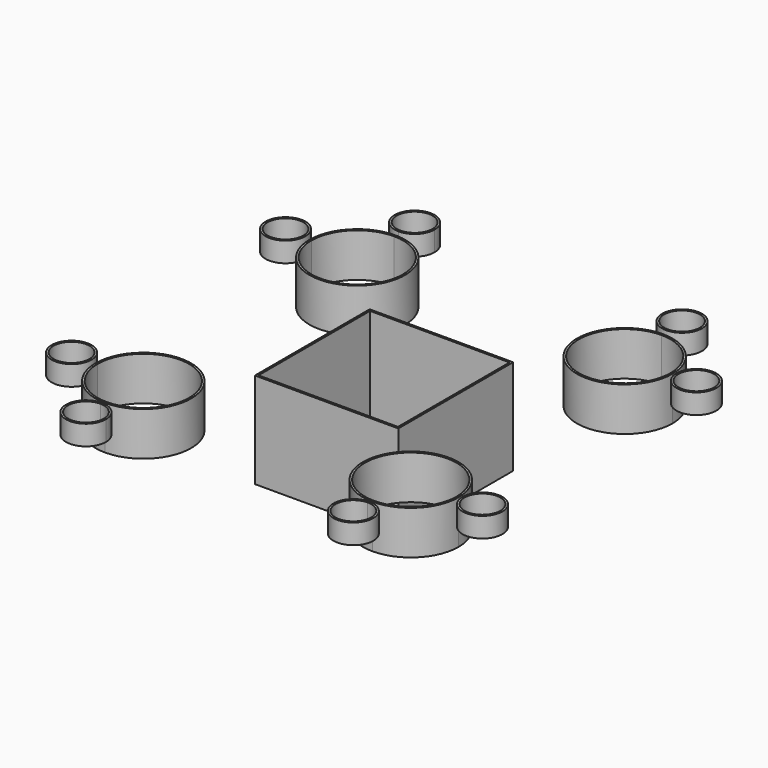
from build123d import *

# Parameters (mm, degrees)
F1_DEPTH = 304.8
F2_START = 166.6155457497
F2_DEPTH = 139.140188694
F3_START = 247.7854937315
F3_DEPTH = 63.5806769133
F0_R     = 63.5
F0_R_2   = 57.1499595642
F0_R_3   = 57.1500191689


with BuildPart() as f1:
    # F0 (on Top) → F1 (new body)
    with BuildSketch(Plane.XY):
        Polygon((228.6, 0), (222.2499893665, 0), (222.2499893665, -222.2499893665), (-222.2499893665, -222.2499893665), (-222.2499893665, 222.2499893665), (222.2499893665, 222.2499893665), (228.6, 228.6), (-228.6, 228.6), (-228.6, -228.6), (228.6, -228.6), align=None)
        Polygon((222.2499893665, 222.2499893665), (222.2499893665, 0), (228.6, 0), (228.6, 228.6), align=None)
    extrude(amount=F1_DEPTH)


with BuildPart() as f2:
    # F0 (on Top) → F2 (new body)
    with BuildSketch(Plane.XY.offset(F2_START)):
        with BuildLine():
            ThreePointArc((-426.1656346635, 578.5656346635), (-533.9287081164, 533.9287081164), (-578.5656346635, 426.1656346635))
            Line((-578.5656346635, 426.1656346635), (-572.2156538324, 426.1656346635))
            ThreePointArc((-572.2156538324, 426.1656346635), (-529.4385936102, 529.4385936102), (-426.1656346635, 572.2156538324))
            Line((-426.1656346635, 572.2156538324), (-426.1656346635, 578.5656346635))
        make_face()
        with BuildLine():
            Line((-322.8926757168, 322.8926757168), (-318.4025612107, 318.4025612107))
            ThreePointArc((-318.4025612107, 318.4025612107), (-285.3663939088, 367.8446795711), (-273.7656346635, 426.1656346635))
            ThreePointArc((-273.7656346635, 426.1656346635), (-318.4025612107, 533.9287081164), (-426.1656346635, 578.5656346635))
            Line((-426.1656346635, 578.5656346635), (-426.1656346635, 572.2156538324))
            ThreePointArc((-426.1656346635, 572.2156538324), (-322.8926757168, 529.4385936102), (-280.1156154947, 426.1656346635))
            ThreePointArc((-280.1156154947, 426.1656346635), (-291.2330112305, 370.274712031), (-322.8926757168, 322.8926757168))
        make_face()
        with BuildLine():
            ThreePointArc((-578.5656346635, 426.1656346635), (-484.486589756, 285.3663939088), (-318.4025612107, 318.4025612107))
            Line((-318.4025612107, 318.4025612107), (-322.8926757168, 322.8926757168))
            ThreePointArc((-322.8926757168, 322.8926757168), (-482.056557296, 291.2330112305), (-572.2156538324, 426.1656346635))
            Line((-572.2156538324, 426.1656346635), (-578.5656346635, 426.1656346635))
        make_face()
    extrude(amount=F2_DEPTH)


with BuildPart() as f2b:
    # F0 (on Top) → F2, piece 2 (new body)
    with BuildSketch(Plane.XY.offset(F2_START)):
        with BuildLine():
            ThreePointArc((426.1656346635, 578.5656346635), (285.3663939088, 484.486589756), (318.4025612107, 318.4025612107))
            Line((318.4025612107, 318.4025612107), (322.8926757168, 322.8926757168))
            ThreePointArc((322.8926757168, 322.8926757168), (291.2330112305, 482.056557296), (426.1656346635, 572.2156538324))
            Line((426.1656346635, 572.2156538324), (426.1656346635, 578.5656346635))
        make_face()
        with BuildLine():
            ThreePointArc((578.5656346635, 426.1656346635), (533.9287081164, 533.9287081164), (426.1656346635, 578.5656346635))
            Line((426.1656346635, 578.5656346635), (426.1656346635, 572.2156538324))
            ThreePointArc((426.1656346635, 572.2156538324), (529.4385936102, 529.4385936102), (572.2156538324, 426.1656346635))
            Line((572.2156538324, 426.1656346635), (578.5656346635, 426.1656346635))
        make_face()
        with BuildLine():
            Line((322.8926757168, 322.8926757168), (318.4025612107, 318.4025612107))
            ThreePointArc((318.4025612107, 318.4025612107), (484.486589756, 285.3663939088), (578.5656346635, 426.1656346635))
            Line((578.5656346635, 426.1656346635), (572.2156538324, 426.1656346635))
            ThreePointArc((572.2156538324, 426.1656346635), (482.056557296, 291.2330112305), (322.8926757168, 322.8926757168))
        make_face()
    extrude(amount=F2_DEPTH)


with BuildPart() as f2c:
    # F0 (on Top) → F2, piece 3 (new body)
    with BuildSketch(Plane.XY.offset(F2_START)):
        with BuildLine():
            ThreePointArc((578.5656346635, -426.1656346635), (484.486589756, -285.3663939088), (318.4025612107, -318.4025612107))
            Line((318.4025612107, -318.4025612107), (322.8926757168, -322.8926757168))
            ThreePointArc((322.8926757168, -322.8926757168), (482.056557296, -291.2330112305), (572.2156538324, -426.1656346635))
            Line((572.2156538324, -426.1656346635), (578.5656346635, -426.1656346635))
        make_face()
        with BuildLine():
            ThreePointArc((426.1656346635, -578.5656346635), (533.9287081164, -533.9287081164), (578.5656346635, -426.1656346635))
            Line((578.5656346635, -426.1656346635), (572.2156538324, -426.1656346635))
            ThreePointArc((572.2156538324, -426.1656346635), (529.4385936102, -529.4385936102), (426.1656346635, -572.2156538324))
            Line((426.1656346635, -572.2156538324), (426.1656346635, -578.5656346635))
        make_face()
        with BuildLine():
            Line((322.8926757168, -322.8926757168), (318.4025612107, -318.4025612107))
            ThreePointArc((318.4025612107, -318.4025612107), (285.3663939088, -484.486589756), (426.1656346635, -578.5656346635))
            Line((426.1656346635, -578.5656346635), (426.1656346635, -572.2156538324))
            ThreePointArc((426.1656346635, -572.2156538324), (291.2330112305, -482.056557296), (322.8926757168, -322.8926757168))
        make_face()
    extrude(amount=F2_DEPTH)


with BuildPart() as f2d:
    # F0 (on Top) → F2, piece 4 (new body)
    with BuildSketch(Plane.XY.offset(F2_START)):
        with BuildLine():
            Line((-572.2156538324, -426.1656346635), (-578.5656346635, -426.1656346635))
            ThreePointArc((-578.5656346635, -426.1656346635), (-533.9287081164, -533.9287081164), (-426.1656346635, -578.5656346635))
            Line((-426.1656346635, -578.5656346635), (-426.1656346635, -572.2156538324))
            ThreePointArc((-426.1656346635, -572.2156538324), (-529.4385936102, -529.4385936102), (-572.2156538324, -426.1656346635))
        make_face()
        with BuildLine():
            Line((-322.8926757168, -322.8926757168), (-318.4025612107, -318.4025612107))
            ThreePointArc((-318.4025612107, -318.4025612107), (-484.486589756, -285.3663939088), (-578.5656346635, -426.1656346635))
            Line((-578.5656346635, -426.1656346635), (-572.2156538324, -426.1656346635))
            ThreePointArc((-572.2156538324, -426.1656346635), (-482.056557296, -291.2330112305), (-322.8926757168, -322.8926757168))
        make_face()
        with BuildLine():
            ThreePointArc((-273.7656346635, -426.1656346635), (-285.3663939088, -367.8446795711), (-318.4025612107, -318.4025612107))
            Line((-318.4025612107, -318.4025612107), (-322.8926757168, -322.8926757168))
            ThreePointArc((-322.8926757168, -322.8926757168), (-291.2330112305, -370.274712031), (-280.1156154947, -426.1656346635))
            ThreePointArc((-280.1156154947, -426.1656346635), (-322.8926757168, -529.4385936102), (-426.1656346635, -572.2156538324))
            Line((-426.1656346635, -572.2156538324), (-426.1656346635, -578.5656346635))
            ThreePointArc((-426.1656346635, -578.5656346635), (-318.4025612107, -533.9287081164), (-273.7656346635, -426.1656346635))
        make_face()
    extrude(amount=F2_DEPTH)


with BuildPart() as f3:
    # F0 (on Top) → F3 (new body)
    with BuildSketch(Plane.XY.offset(F3_START)):
        with BuildLine():
            ThreePointArc((-362.6656346635, 654.7656346635), (-471.0669152689, 699.6669152689), (-426.1656346635, 591.2656346635))
            ThreePointArc((-426.1656346635, 591.2656346635), (-381.2643540582, 609.8643540582), (-362.6656346635, 654.7656346635))
        make_face()
        with BuildLine():
            ThreePointArc((-369.0156154947, 654.7656346635), (-385.7544685643, 614.3544685643), (-426.1656346635, 597.6156154947))
            ThreePointArc((-426.1656346635, 597.6156154947), (-466.5768007628, 695.1768007628), (-369.0156154947, 654.7656346635))
        make_face(mode=Mode.SUBTRACT)
    extrude(amount=F3_DEPTH)


with BuildPart() as f3b:
    # F0 (on Top) → F3, piece 2 (new body)
    with BuildSketch(Plane.XY.offset(F3_START)):
        with Locations((-654.7656346635, 426.1656346635)):
            Circle(F0_R)
        with Locations((-654.7656346635, 426.1656346635)):
            Circle(F0_R_2, mode=Mode.SUBTRACT)
    extrude(amount=F3_DEPTH)


with BuildPart() as f3c:
    # F0 (on Top) → F3, piece 3 (new body)
    with BuildSketch(Plane.XY.offset(F3_START)):
        with BuildLine():
            ThreePointArc((489.6656346635, 654.7656346635), (381.2643540582, 699.6669152689), (426.1656346635, 591.2656346635))
            ThreePointArc((426.1656346635, 591.2656346635), (471.0669152689, 609.8643540582), (489.6656346635, 654.7656346635))
        make_face()
        with BuildLine():
            ThreePointArc((483.3155942277, 654.7656346635), (466.5767586159, 614.3545107111), (426.1656346635, 597.6156750993))
            ThreePointArc((426.1656346635, 597.6156750993), (385.7545107111, 695.1767586159), (483.3155942277, 654.7656346635))
        make_face(mode=Mode.SUBTRACT)
    extrude(amount=F3_DEPTH)


with BuildPart() as f3d:
    # F0 (on Top) → F3, piece 4 (new body)
    with BuildSketch(Plane.XY.offset(F3_START)):
        with BuildLine():
            ThreePointArc((718.2656346635, 426.1656346635), (654.7656346635, 489.6656346635), (591.2656346635, 426.1656346635))
            ThreePointArc((591.2656346635, 426.1656346635), (654.7656346635, 362.6656346635), (718.2656346635, 426.1656346635))
        make_face()
        with BuildLine():
            ThreePointArc((711.9156538324, 426.1656346635), (654.7656346635, 369.0156154947), (597.6156154947, 426.1656346635))
            ThreePointArc((597.6156154947, 426.1656346635), (654.7656346635, 483.3156538324), (711.9156538324, 426.1656346635))
        make_face(mode=Mode.SUBTRACT)
    extrude(amount=F3_DEPTH)


with BuildPart() as f3e:
    # F0 (on Top) → F3, piece 5 (new body)
    with BuildSketch(Plane.XY.offset(F3_START)):
        with BuildLine():
            ThreePointArc((718.2656346635, -426.1656346635), (654.7656346635, -362.6656346635), (591.2656346635, -426.1656346635))
            ThreePointArc((591.2656346635, -426.1656346635), (654.7656346635, -489.6656346635), (718.2656346635, -426.1656346635))
        make_face()
        with BuildLine():
            ThreePointArc((711.9155942277, -426.1656346635), (654.7656346635, -483.3155942277), (597.6156750993, -426.1656346635))
            ThreePointArc((597.6156750993, -426.1656346635), (654.7656346635, -369.0156750993), (711.9155942277, -426.1656346635))
        make_face(mode=Mode.SUBTRACT)
    extrude(amount=F3_DEPTH)


with BuildPart() as f3f:
    # F0 (on Top) → F3, piece 6 (new body)
    with BuildSketch(Plane.XY.offset(F3_START)):
        with BuildLine():
            ThreePointArc((489.6656346635, -654.7656346635), (471.0669152689, -609.8643540582), (426.1656346635, -591.2656346635))
            ThreePointArc((426.1656346635, -591.2656346635), (381.2643540582, -699.6669152689), (489.6656346635, -654.7656346635))
        make_face()
        with BuildLine():
            ThreePointArc((483.3156538324, -654.7656346635), (385.7544685643, -695.1768007628), (426.1656346635, -597.6156154947))
            ThreePointArc((426.1656346635, -597.6156154947), (466.5768007628, -614.3544685643), (483.3156538324, -654.7656346635))
        make_face(mode=Mode.SUBTRACT)
    extrude(amount=F3_DEPTH)


with BuildPart() as f3g:
    # F0 (on Top) → F3, piece 7 (new body)
    with BuildSketch(Plane.XY.offset(F3_START)):
        with BuildLine():
            ThreePointArc((-362.6656346635, -654.7656346635), (-381.2643540582, -609.8643540582), (-426.1656346635, -591.2656346635))
            ThreePointArc((-426.1656346635, -591.2656346635), (-471.0669152689, -699.6669152689), (-362.6656346635, -654.7656346635))
        make_face()
        with BuildLine():
            ThreePointArc((-369.0156750993, -654.7656346635), (-466.5767586159, -695.1767586159), (-426.1656346635, -597.6156750993))
            ThreePointArc((-426.1656346635, -597.6156750993), (-385.7545107111, -614.3545107111), (-369.0156750993, -654.7656346635))
        make_face(mode=Mode.SUBTRACT)
    extrude(amount=F3_DEPTH)


with BuildPart() as f3h:
    # F0 (on Top) → F3, piece 8 (new body)
    with BuildSketch(Plane.XY.offset(F3_START)):
        with Locations((-654.7656346635, -426.1656346635)):
            Circle(F0_R)
        with Locations((-654.7656346635, -426.1656346635)):
            Circle(F0_R_3, mode=Mode.SUBTRACT)
    extrude(amount=F3_DEPTH)


solid = Compound([f1.part, f2.part, f2b.part, f2c.part, f2d.part, f3.part, f3b.part, f3c.part, f3d.part, f3e.part, f3f.part, f3g.part, f3h.part])
